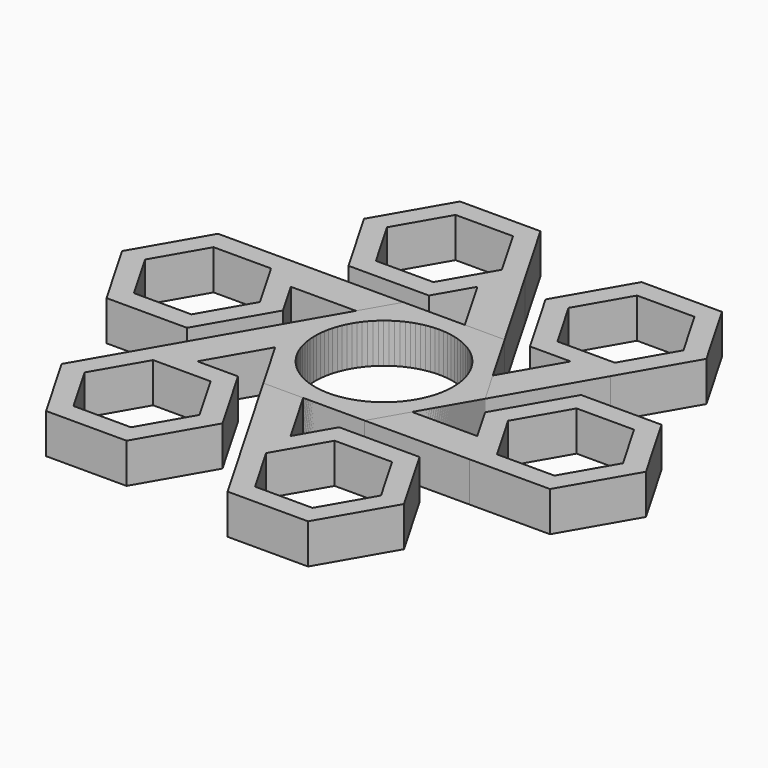
from build123d import *

# Parameters (mm, degrees)
F0_R     = 11.0236
F1_DEPTH = 6.35
F2_COUNT = 6


with BuildPart() as f1:
    # F0 (on Top) → F1 (new body)
    with BuildSketch(Plane.XY):
        Polygon((-1.715583, -13.97), (8.065583, -13.97), (16.131167, 0), (8.065583, 13.97), (-8.065583, 13.97), (-16.131167, 0), (-8.065583, -13.97), align=None)
        Circle(F0_R, mode=Mode.SUBTRACT)
        Polygon((3.488029, -22.98292), (-1.715583, -13.97), (-8.065583, -13.97), (0.313029, -28.482181), align=None)
        Polygon((6.728833, -17.369681), (3.488029, -22.98292), (0.313029, -28.482181), (6.728833, -39.594681), (19.560443, -39.594681), (25.976248, -28.482181), (19.560443, -17.369681), align=None)
        Polygon((22.310074, -28.482181), (17.727356, -36.419681), (8.561921, -36.419681), (3.979203, -28.482181), (8.561921, -20.544681), (17.727356, -20.544681), align=None, mode=Mode.SUBTRACT)
    extrude(amount=F1_DEPTH)


with BuildPart() as f2_1:
    # F2: instance of F1
    add(f1.part.rotate(Axis((0, 0, 6.35), (0, 0, 1)), 1 * 360 / F2_COUNT))


with BuildPart() as f2_2:
    # F2: instance of F1
    add(f1.part.rotate(Axis((0, 0, 6.35), (0, 0, 1)), 2 * 360 / F2_COUNT))


with BuildPart() as f2_3:
    # F2: instance of F1
    add(f1.part.rotate(Axis((0, 0, 6.35), (0, 0, 1)), 3 * 360 / F2_COUNT))


with BuildPart() as f2_4:
    # F2: instance of F1
    add(f1.part.rotate(Axis((0, 0, 6.35), (0, 0, 1)), 4 * 360 / F2_COUNT))


with BuildPart() as f2_5:
    # F2: instance of F1
    add(f1.part.rotate(Axis((0, 0, 6.35), (0, 0, 1)), 5 * 360 / F2_COUNT))


solid = Compound([f1.part, f2_1.part, f2_2.part, f2_3.part, f2_4.part, f2_5.part])
